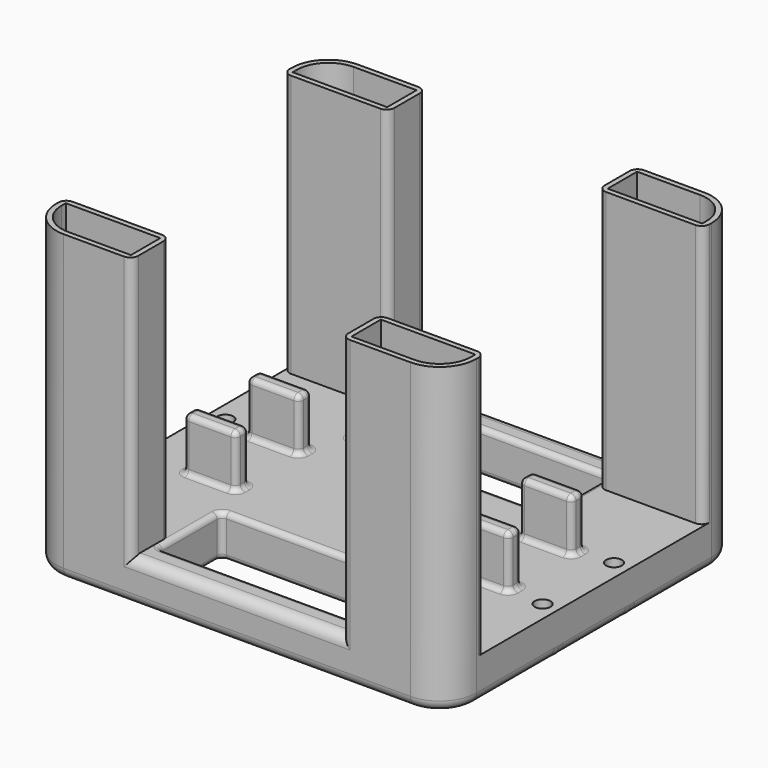
from build123d import *

# Parameters (mm, degrees)
SKETCH_R     = 1.5
SKETCH_W     = 38
SKETCH_H     = 15
PAD_DEPTH    = 8
PAD001_DEPTH = 50
SKETCH004_W  = 10
SKETCH004_H  = 3
PAD002_DEPTH = 10
POCKET_DEPTH = 50
FILLET_R     = 2
FILLET011_R  = 1
FILLET012_R  = 1.5
FILLET013_R  = 0.999


with BuildPart() as part:
    # Sketch → Pad (new body)
    with BuildSketch(Plane.XY):
        with BuildLine():
            Line((-33, 35), (33, 35))
            ThreePointArc((40, 28), (37.949747, 32.949747), (33, 35))
            Line((40, 28), (40, -28))
            ThreePointArc((33, -35), (37.949747, -32.949747), (40, -28))
            Line((33, -35), (-33, -35))
            ThreePointArc((-40, -28), (-37.949747, -32.949747), (-33, -35))
            Line((-40, -28), (-40, 28))
            ThreePointArc((-33, 35), (-37.949747, 32.949747), (-40, 28))
        make_face()
        with Locations((-37, 8.5)):
            Circle(SKETCH_R, mode=Mode.SUBTRACT)
        with Locations((-37, -8.5)):
            Circle(SKETCH_R, mode=Mode.SUBTRACT)
        with Locations((37, 8.5)):
            Circle(SKETCH_R, mode=Mode.SUBTRACT)
        with Locations((37, -8.5)):
            Circle(SKETCH_R, mode=Mode.SUBTRACT)
        with Locations((0, 22.5)):
            Rectangle(SKETCH_W, SKETCH_H, mode=Mode.SUBTRACT)
        with Locations((0, -22.5)):
            Rectangle(SKETCH_W, SKETCH_H, mode=Mode.SUBTRACT)
    extrude(amount=PAD_DEPTH)

    # Sketch001 (on DatumPlane) → Pad001 (join)
    with BuildSketch(Plane.XY.offset(8)):
        with BuildLine():
            Line((-33, 35), (-20, 35))
            Line((-20, 26), (-20, 35))
            Line((-40, 26), (-20, 26))
            Line((-40, 26), (-40, 28))
            ThreePointArc((-33, 35), (-37.949747, 32.949747), (-40, 28))
        make_face()
        with BuildLine():
            Line((40, 28), (40, 26))
            Line((20, 26), (40, 26))
            Line((20, 26), (20, 35))
            Line((20, 35), (33, 35))
            ThreePointArc((40, 28), (37.949747, 32.949747), (33, 35))
        make_face()
        with BuildLine():
            Line((33, -35), (20, -35))
            Line((20, -26), (20, -35))
            Line((20, -26), (40, -26))
            Line((40, -26), (40, -28))
            ThreePointArc((33, -35), (37.949747, -32.949747), (40, -28))
        make_face()
        with BuildLine():
            ThreePointArc((-40, -28), (-37.949747, -32.949747), (-33, -35))
            Line((-20, -35), (-33, -35))
            Line((-20, -26), (-20, -35))
            Line((-40, -26), (-20, -26))
            Line((-40, -26), (-40, -28))
        make_face()
    extrude(amount=PAD001_DEPTH)

    # Sketch004 (on DatumPlane) → Pad002 (join)
    with BuildSketch(Plane.XY.offset(8)):
        with Locations((-25.969948, 7.5)):
            Rectangle(SKETCH004_W, SKETCH004_H)
        with Locations((25.969948, 7.5)):
            Rectangle(SKETCH004_W, SKETCH004_H)
        with Locations((25.969948, -7.5)):
            Rectangle(SKETCH004_W, SKETCH004_H)
        with Locations((-25.969948, -7.5)):
            Rectangle(SKETCH004_W, SKETCH004_H)
    extrude(amount=PAD002_DEPTH)

    # Sketch003 (on DatumPlane) → Pocket (cut)
    with BuildSketch(Plane.XY.offset(58)):
        with BuildLine():
            Line((-33, 34), (-21, 34))
            Line((-21, 27), (-21, 34))
            Line((-39, 27), (-21, 27))
            Line((-39, 27), (-39, 28))
            ThreePointArc((-33, 34), (-37.242641, 32.242641), (-39, 28))
        make_face()
        with BuildLine():
            Line((39, 28), (39, 27))
            Line((21, 27), (39, 27))
            Line((21, 27), (21, 34))
            Line((21, 34), (33, 34))
            ThreePointArc((39, 28), (37.242641, 32.242641), (33, 34))
        make_face()
        with BuildLine():
            Line((33, -34), (21, -34))
            Line((21, -27), (21, -34))
            Line((21, -27), (39, -27))
            Line((39, -27), (39, -28))
            ThreePointArc((33, -34), (37.242641, -32.242641), (39, -28))
        make_face()
        with BuildLine():
            ThreePointArc((-39, -28), (-37.242641, -32.242641), (-33, -34))
            Line((-21, -34), (-33, -34))
            Line((-21, -27), (-21, -34))
            Line((-39, -27), (-21, -27))
            Line((-39, -27), (-39, -28))
        make_face()
    extrude(amount=-POCKET_DEPTH, mode=Mode.SUBTRACT)

    # Fillet
    fillet_edges = [part.edges().sort_by_distance(p)[0] for p in [
        (0, -35, 8),
        (0, 35, 8),
        (0, 35, 0),
        (0, -35, 0),
    ]]
    fillet(fillet_edges, radius=FILLET_R)

    # Fillet011
    fillet011_edges = [part.edges().sort_by_distance(p)[0] for p in [
        (20.969948, 6, 13),
        (20.969948, 7.5, 18),
        (20.969948, 9, 13),
        (20.969948, 7.5, 8),
        (25.969948, 9, 18),
        (30.969948, 9, 13),
        (25.969948, 9, 8),
        (20.969948, -6, 13),
        (25.969948, -6, 18),
        (30.969948, -6, 13),
        (25.969948, -6, 8),
        (20.969948, -9, 13),
        (20.969948, -7.5, 18),
        (20.969948, -7.5, 8),
        (-30.969948, -6, 13),
        (-25.969948, -6, 18),
        (-20.969948, -6, 13),
        (-25.969948, -6, 8),
        (-30.969948, -9, 13),
        (-30.969948, -7.5, 18),
        (-30.969948, -7.5, 8),
        (-30.969948, 9, 13),
        (-25.969948, 9, 18),
        (-20.969948, 9, 13),
        (-25.969948, 9, 8),
        (-30.969948, 6, 13),
        (-30.969948, 7.5, 18),
        (-30.969948, 7.5, 8),
        (30.969948, 7.5, 18),
        (30.969948, 6, 13),
        (30.969948, 7.5, 8),
        (25.969948, 6, 18),
        (25.969948, 6, 8),
        (30.969948, -7.5, 18),
        (30.969948, -9, 13),
        (30.969948, -7.5, 8),
        (-20.969948, 7.5, 18),
        (-20.969948, 6, 13),
        (-20.969948, 7.5, 8),
        (-20.969948, -7.5, 18),
        (-20.969948, -9, 13),
        (-20.969948, -7.5, 8),
        (25.969948, -9, 18),
        (25.969948, -9, 8),
        (-25.969948, -9, 18),
        (-25.969948, -9, 8),
        (-25.969948, 6, 18),
        (-25.969948, 6, 8),
    ]]
    fillet(fillet011_edges, radius=FILLET011_R)

    # Fillet012
    fillet012_edges = [part.edges().sort_by_distance(p)[0] for p in [
        (-20, 26, 33),
        (-20, -26, 33),
        (-20, -35, 33),
        (-20, 35, 33),
        (20, 35, 33),
        (20, 26, 33),
        (20, -26, 33),
        (20, -35, 33),
        (-40, 26, 33),
        (-40, -26, 33),
        (40, 26, 33),
        (40, -26, 33),
    ]]
    fillet(fillet012_edges, radius=FILLET012_R)

    # Fillet013
    fillet013_edges = [part.edges().sort_by_distance(p)[0] for p in [
        (19, 30, 4),
        (19, 22.5, 8),
        (19, 15, 4),
        (19, 22.5, 0),
        (0, 15, 8),
        (-19, 15, 4),
        (0, 15, 0),
        (19, -15, 4),
        (19, -22.5, 8),
        (19, -30, 4),
        (19, -22.5, 0),
        (0, -30, 8),
        (-19, -30, 4),
        (0, -30, 0),
        (-19, 30, 4),
        (0, 30, 8),
        (0, 30, 0),
        (-19, 22.5, 8),
        (-19, 22.5, 0),
        (-19, -15, 4),
        (0, -15, 8),
        (0, -15, 0),
        (-19, -22.5, 8),
        (-19, -22.5, 0),
    ]]
    fillet(fillet013_edges, radius=FILLET013_R)


solid = part.part
